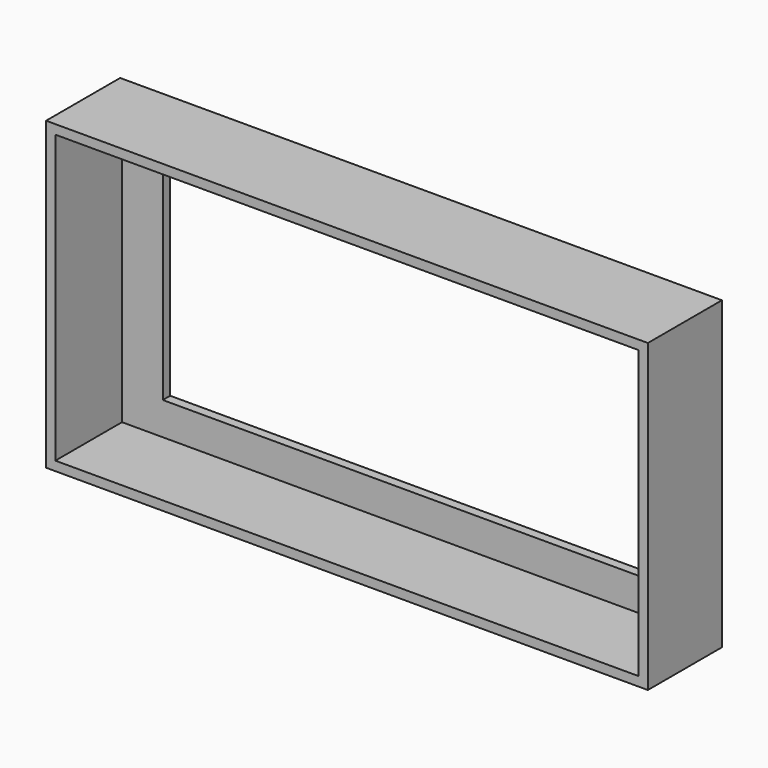
from build123d import *

# Parameters (mm, degrees)
F0_W     = 65
F0_H     = 33
F0_W_2   = 54.1921891272
F0_H_2   = 23.9197313786
F1_DEPTH = 10
F2_T     = -1
F3_DEPTH = 73.8002602011


with BuildPart() as f1:
    # F0 (on Front) → F1 (new body)
    with BuildSketch(Plane.XZ):
        Rectangle(F0_W, F0_H)
        Rectangle(F0_W_2, F0_H_2, mode=Mode.SUBTRACT)
        Rectangle(F0_W_2, F0_H_2)
    extrude(amount=F1_DEPTH)

    # F2
    f2_openings = [f1.faces().sort_by_distance(p)[0] for p in [
        (0, -10, 0),
    ]]
    offset(amount=F2_T, openings=f2_openings)

    # F0 (on Front) → F3 (cut)
    with BuildSketch(Plane.XZ):
        Rectangle(F0_W_2, F0_H_2)
    extrude(amount=F3_DEPTH, mode=Mode.SUBTRACT)


solid = f1.part
